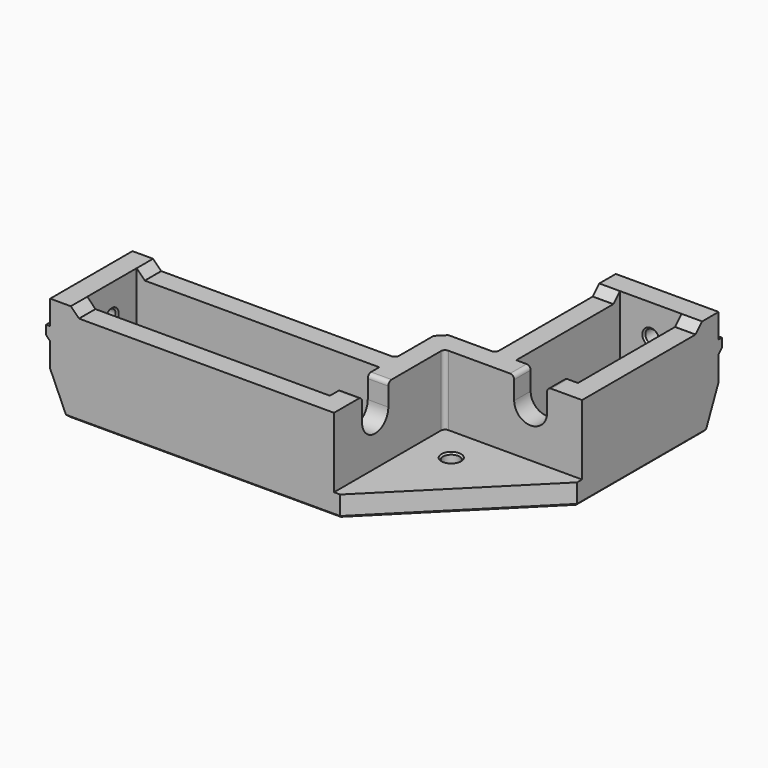
from build123d import *

# Parameters (mm, degrees)
SKETCH005_R        = 2
SKETCH005_W        = 59
SKETCH005_H        = 15
SKETCH005_W_2      = 15
SKETCH005_H_2      = 31.5
PAD002_DEPTH       = 24
SKETCH007_W        = 33.5
SKETCH007_H        = 33.5
POCKET003_DEPTH    = 19
CHAMFER002004_SIZE = 32
SKETCH008_W        = 95.5
SKETCH008_H        = 68
POCKET004_DEPTH    = 2
CHAMFER002005_SIZE = 1.99
POCKET005_DEPTH    = 75.001
POCKET006_DEPTH    = 102.501
POCKET007_DEPTH    = 19
SKETCH012_R        = 1.65
POCKET008_DEPTH    = 5
SKETCH013_R        = 1.65
POCKET009_DEPTH    = 5
SKETCH014_W        = 10.5
SKETCH014_H        = 3.2
PAD003_DEPTH       = 1
SKETCH015_W        = 10.5
SKETCH015_H        = 3.2
PAD004_DEPTH       = 1
CHAMFER002006_SIZE = 0.99
POCKET010_DEPTH    = 5
POCKET011_DEPTH    = 5
CHAMFER002007_SIZE = 0.4
FILLET001002_R     = 1
CHAMFER002008_SIZE = 0.4


with BuildPart() as part:
    # Sketch005 → Pad002 (new body)
    with BuildSketch(Plane.XY):
        Polygon((52.5, -50), (77.5, -25), (77.5, 0), (102.5, 0), (102.5, -75), (0, -75), (0, -50), align=None)
        with Locations((77.5, -50)):
            Circle(SKETCH005_R, mode=Mode.SUBTRACT)
        with Locations((34.5, -62.5)):
            Rectangle(SKETCH005_W, SKETCH005_H, mode=Mode.SUBTRACT)
        with Locations((90, -20.75)):
            Rectangle(SKETCH005_W_2, SKETCH005_H_2, mode=Mode.SUBTRACT)
    extrude(amount=PAD002_DEPTH)

    # Sketch007 (on Face18 of Pad002) → Pocket003 (cut)
    with BuildSketch(Plane.XY.offset(24)):
        with Locations((85.75, -58.25)):
            Rectangle(SKETCH007_W, SKETCH007_H)
    extrude(amount=-POCKET003_DEPTH, mode=Mode.SUBTRACT)

    # Chamfer002004
    chamfer002004_edges = [part.edges().sort_by_distance(p)[0] for p in [
        (102.5, -75, 2.5),
    ]]
    chamfer(chamfer002004_edges, length=CHAMFER002004_SIZE)

    # Sketch008 (on Face6 of Chamfer002004) → Pocket004 (cut)
    with BuildSketch(Plane.XY.offset(24)):
        with Locations((54.75, -41)):
            Rectangle(SKETCH008_W, SKETCH008_H)
    extrude(amount=-POCKET004_DEPTH, mode=Mode.SUBTRACT)

    # Chamfer002005
    chamfer002005_edges = [part.edges().sort_by_distance(p)[0] for p in [
        (7, -72.5, 24),
        (7, -52.5, 24),
        (80, -7, 24),
        (100, -7, 24),
    ]]
    chamfer(chamfer002005_edges, length=CHAMFER002005_SIZE)

    # Sketch009 (on Face1 of Chamfer002005) → Pocket005 (cut, through all)
    with BuildSketch(Plane.XZ.offset(75)):
        Polygon((0, 9), (4, 0), (0, 0), align=None)
    extrude(amount=-POCKET005_DEPTH, mode=Mode.SUBTRACT)

    # Sketch010 (on Face17 of Pocket005) → Pocket006 (cut, through all)
    with BuildSketch(Plane.YZ.offset(102.5)):
        Polygon((0, 9), (-4, 0), (0, 0), align=None)
    extrude(amount=-POCKET006_DEPTH, mode=Mode.SUBTRACT)

    # Sketch011 (on Face10 of Pocket006) → Pocket007 (cut)
    with BuildSketch(Plane.XY.offset(22)):
        Polygon((64, -38.5), (64, -50), (52.5, -50), align=None)
        Polygon((77.5, -25), (77.5, -36.5), (66, -36.5), align=None)
    extrude(amount=-POCKET007_DEPTH, mode=Mode.SUBTRACT)

    # Sketch012 (on Face4 of Pocket007) → Pocket008 (cut)
    with BuildSketch(Plane(origin=(0, 0, 0), x_dir=(0, -1, 0), z_dir=(-1, 0, 0))):
        with Locations((62.5, 16.5)):
            Circle(SKETCH012_R)
    extrude(amount=-POCKET008_DEPTH, mode=Mode.SUBTRACT)

    # Sketch013 (on Face37 of Pocket008) → Pocket009 (cut)
    with BuildSketch(Plane(origin=(0, 0, 0), x_dir=(-1, 0, 0), z_dir=(0, 1, 0))):
        with Locations((-90, 16.5)):
            Circle(SKETCH013_R)
    extrude(amount=-POCKET009_DEPTH, mode=Mode.SUBTRACT)

    # Sketch014 (on Face37 of Pocket009) → Pad003 (join)
    with BuildSketch(Plane(origin=(0, 0, 0), x_dir=(-1, 0, 0), z_dir=(0, 1, 0))):
        with Locations((-97.25, 16.5)):
            Rectangle(SKETCH014_W, SKETCH014_H)
        with Locations((-82.75, 16.5)):
            Rectangle(SKETCH014_W, SKETCH014_H)
    extrude(amount=PAD003_DEPTH)

    # Sketch015 (on Face4 of Pad003) → Pad004 (join)
    with BuildSketch(Plane(origin=(0, 0, 0), x_dir=(0, -1, 0), z_dir=(-1, 0, 0))):
        with Locations((55.25, 16.5)):
            Rectangle(SKETCH015_W, SKETCH015_H)
        with Locations((69.75, 16.5)):
            Rectangle(SKETCH015_W, SKETCH015_H)
    extrude(amount=PAD004_DEPTH)

    # Chamfer002006
    chamfer002006_edges = [part.edges().sort_by_distance(p)[0] for p in [
        (-1, -55.25, 14.9),
        (-1, -69.75, 14.9),
        (97.25, 1, 14.9),
        (82.75, 1, 14.9),
    ]]
    chamfer(chamfer002006_edges, length=CHAMFER002006_SIZE)

    # Sketch016 (on Face15 of Chamfer002006) → Pocket010 (cut)
    with BuildSketch(Plane.YZ.offset(69)):
        with BuildLine():
            ThreePointArc((-66.5, 16.5), (-62.5, 12.5), (-58.5, 16.5))
            Line((-58.5, 24), (-58.5, 16.5))
            Line((-66.5, 24), (-58.5, 24))
            Line((-66.5, 16.5), (-66.5, 24))
        make_face()
    extrude(amount=-POCKET010_DEPTH, mode=Mode.SUBTRACT)

    # Sketch017 (on Face37 of Pocket010) → Pocket011 (cut)
    with BuildSketch(Plane.XZ.offset(41.5)):
        with BuildLine():
            ThreePointArc((86, 16.5), (90, 12.5), (94, 16.5))
            Line((94, 24), (94, 16.5))
            Line((86, 24), (94, 24))
            Line((86, 16.5), (86, 24))
        make_face()
    extrude(amount=-POCKET011_DEPTH, mode=Mode.SUBTRACT)

    # Chamfer002007
    chamfer002007_edges = [part.edges().sort_by_distance(p)[0] for p in [
        (102.5, -23.5, 0),
        (90, -4, 0),
        (77.5, -14.5, 0),
        (65, -37.5, 0),
        (28.25, -50, 0),
        (4, -62.5, 0),
        (37.25, -75, 0),
        (86.5, -59, 0),
        (75.5, -50, 0),
        (5, -62.5, 0),
        (34.5, -70, 0),
        (34.5, -55, 0),
        (64, -62.5, 0),
        (82.5, -20.75, 0),
        (90, -36.5, 0),
        (90, -5, 0),
        (97.5, -20.75, 0),
        (75.5, -50, 5),
    ]]
    chamfer(chamfer002007_edges, length=CHAMFER002007_SIZE)

    # Fillet001002
    fillet001002_edges = [part.edges().sort_by_distance(p)[0] for p in [
        (66.5, -66.5, 22),
        (66.5, -58.5, 22),
        (86, -39, 22),
        (94, -39, 22),
        (69, -41.5, 13.5),
        (64, -50, 12.5),
        (77.5, -36.5, 12.5),
    ]]
    fillet(fillet001002_edges, radius=FILLET001002_R)

    # Chamfer002008
    chamfer002008_edges = [part.edges().sort_by_distance(p)[0] for p in [
        (5, -60.85, 16.5),
        (91.65, -5, 16.5),
    ]]
    chamfer(chamfer002008_edges, length=CHAMFER002008_SIZE)


solid = part.part
